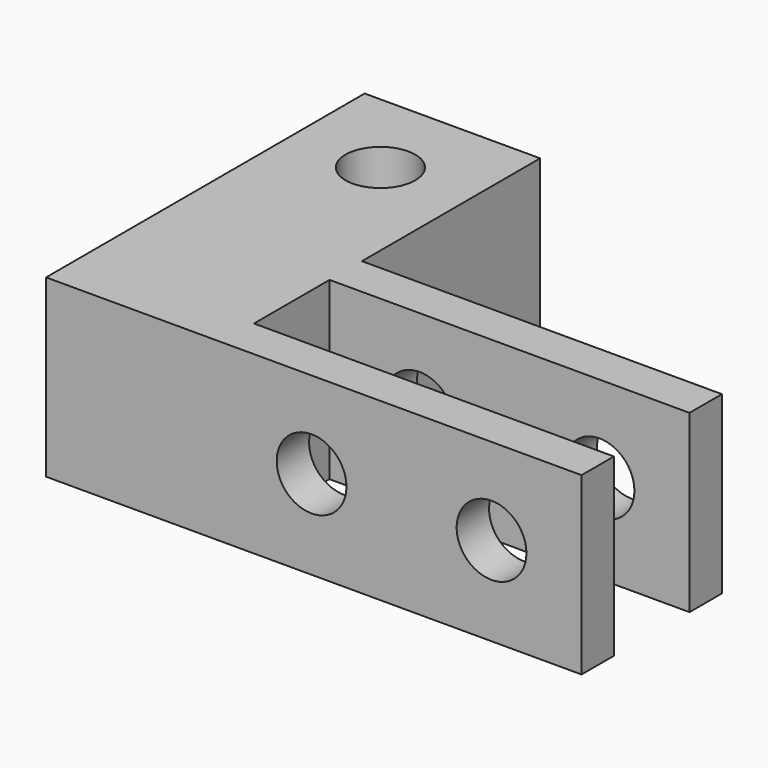
from build123d import *

# Parameters (mm, degrees)
PAD_DEPTH       = 7.8
SKETCH001_R     = 1.55
POCKET_DEPTH    = 17.701
SKETCH003_R     = 1.55
POCKET001_DEPTH = 7.801


with BuildPart() as part:
    # Sketch → Pad (new body)
    with BuildSketch(Plane.XY):
        Polygon((-3.9, 17.7), (3.9, 17.7), (3.9, 7.8), (19.9, 7.8), (19.9, 6), (3.9, 6), (3.9, 1.8), (19.9, 1.8), (19.9, 0), (-3.9, 0), align=None)
    extrude(amount=PAD_DEPTH)

    # Sketch001 (on Face1 of Pad) → Pocket (cut, through all)
    with BuildSketch(Plane.XZ):
        with Locations((7.9, 3.95)):
            Circle(SKETCH001_R)
        with Locations((15.9, 3.95)):
            Circle(SKETCH001_R)
    extrude(amount=-POCKET_DEPTH, mode=Mode.SUBTRACT)

    # Sketch003 (on Face4 of Pocket) → Pocket001 (cut, through all)
    with BuildSketch(Plane.XY.offset(7.8)):
        with Locations((0, 13.7)):
            Circle(SKETCH003_R)
    extrude(amount=-POCKET001_DEPTH, mode=Mode.SUBTRACT)


solid = part.part
